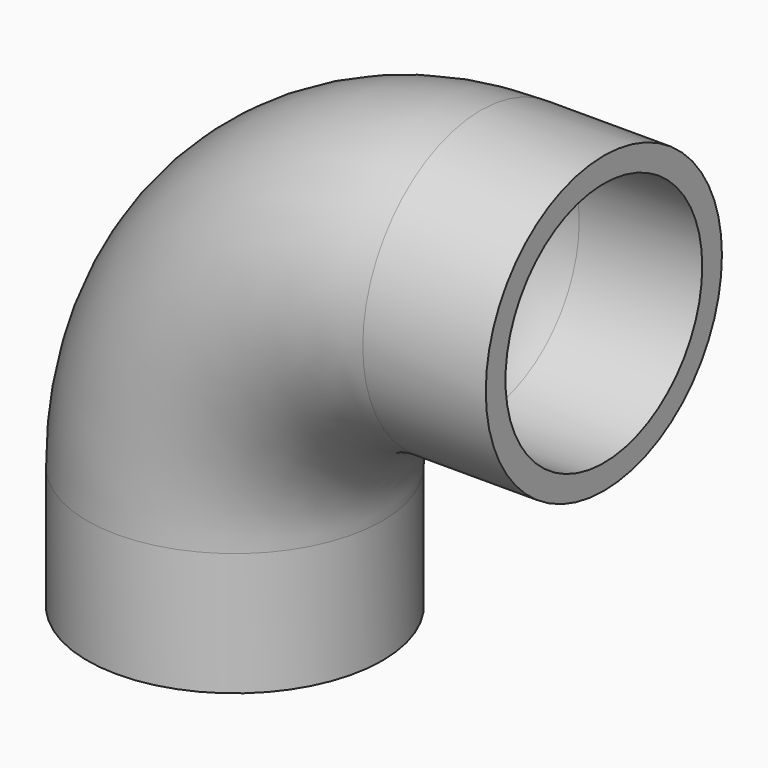
from build123d import *

# Parameters (mm, degrees)
F1_R   = 12
F1_R_2 = 10


with BuildPart() as f2:
    # F2: sweep along a path in F0
    with BuildLine(Plane.XZ) as f2_path:
        Line((-0.000112, -2.6e-05), (-10.000112, -2.6e-05))
        ThreePointArc((-10.000112, -2.6e-05), (-24.142248, -5.85789), (-30.000112, -20.000026))
        Line((-30.000112, -20.000026), (-30.000112, -30.000026))
    # F1 (on Right) → F2 (sweep)
    with BuildSketch(Plane.YZ):
        Circle(F1_R)
        Circle(F1_R_2, mode=Mode.SUBTRACT)
    sweep(path=f2_path.line)


solid = f2.part
